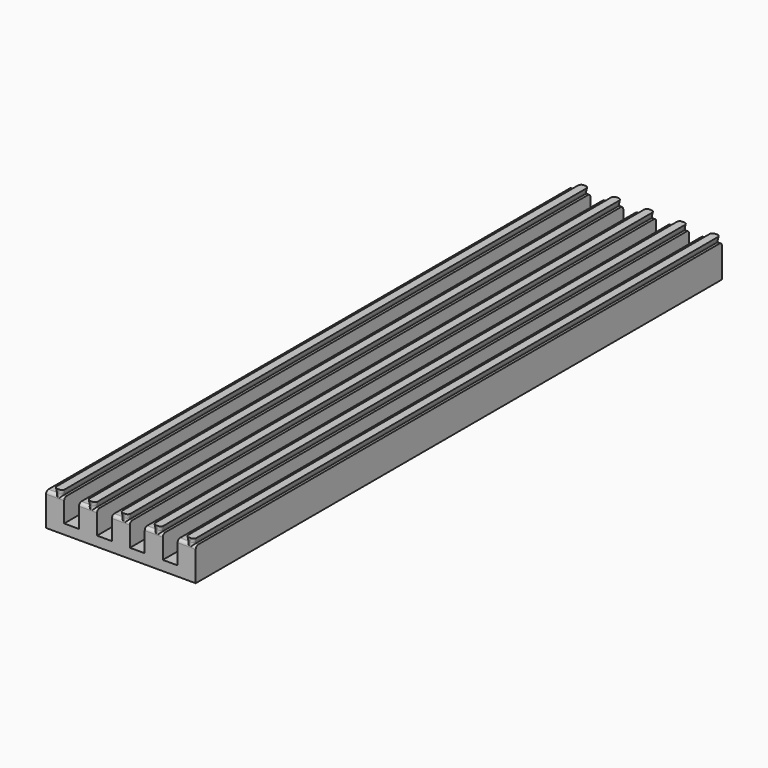
from build123d import *

# Parameters (mm, degrees)
BOX_W               = 70
BOX_H               = 200
BOX_DEPTH           = 11.6
POCKET_DEPTH        = 200.001
LINEARPATTERN_COUNT = 6
LINEARPATTERN_PITCH = 10
SKETCH_W            = 82.408782
SKETCH_H            = 38.885188
SKETCH_W_2          = 45.5
SKETCH_H_2          = 14.501198
POCKET001_DEPTH     = 200.001
SKETCH003_R         = 1
POCKET002_DEPTH     = 11.601
CHAMFER_SIZE        = 1
FILLET_R            = 0.92


with BuildPart() as part:
    # Box → Box (new body)
    with BuildSketch(Plane(origin=(-7.5, 0, 0), x_dir=(1, 0, 0), z_dir=(0, 0, 1))):
        with Locations((35, 100)):
            Rectangle(BOX_W, BOX_H)
    extrude(amount=BOX_DEPTH)

    # Sketch002 → Pocket (cut, through all)
    with BuildSketch(Plane(origin=(-7.5, 0, 0), x_dir=(1, 0, 0), z_dir=(0, -1, 0))):
        Polygon((10.05, 10), (7.25, 10), (7.25, 3), (2.75, 3), (2.75, 10), (1.95, 10), (1.95, 10.4), (2.25, 11.6), (9.75, 11.6), (10.05, 10.4), align=None)
    pocket = extrude(amount=-POCKET_DEPTH, mode=Mode.SUBTRACT)

    # LinearPattern: Pocket ×6
    with Locations(*[(i * LINEARPATTERN_PITCH, 0, 0) for i in range(1, LINEARPATTERN_COUNT)]):
        add(pocket, mode=Mode.SUBTRACT)

    # Sketch → Pocket001 (cut, through all)
    with BuildSketch(Plane(origin=(-7.5, 0, 0), x_dir=(1, 0, 0), z_dir=(0, -1, 0))):
        with Locations((35.413628, 6.289411)):
            Rectangle(SKETCH_W, SKETCH_H)
        with Locations((30, 5.862397)):
            Rectangle(SKETCH_W_2, SKETCH_H_2, mode=Mode.SUBTRACT)
    extrude(amount=-POCKET001_DEPTH, mode=Mode.SUBTRACT)

    # Sketch003 → Pocket002 (cut, through all)
    with BuildSketch(Plane(origin=(-7.5, 0, 0), x_dir=(1, 0, 0), z_dir=(0, 0, -1))):
        with Locations((15, -10)):
            Circle(SKETCH003_R)
        with Locations((45, -10)):
            Circle(SKETCH003_R)
        with Locations((15, -190)):
            Circle(SKETCH003_R)
        with Locations((45, -190)):
            Circle(SKETCH003_R)
        with Locations((15, -100)):
            Circle(SKETCH003_R)
        with Locations((45, -100)):
            Circle(SKETCH003_R)
    extrude(amount=-POCKET002_DEPTH, mode=Mode.SUBTRACT)

    # Chamfer
    chamfer_edges = [part.edges().sort_by_distance(p)[0] for p in [
        (36.5, 190, 3),
        (6.5, 190, 3),
        (36.5, 100, 3),
        (6.5, 100, 3),
        (36.5, 10, 3),
        (6.5, 10, 3),
    ]]
    chamfer(chamfer_edges, length=CHAMFER_SIZE)

    # Fillet
    fillet_edges = [part.edges().sort_by_distance(p)[0] for p in [
        (1.15, 0, 10),
        (2.55, 0, 10.2),
        (2.4, 0, 11),
        (4.6, 0, 11),
        (4.45, 0, 10.2),
        (4.85, 0, 10),
        (11.15, 0, 10),
        (12.55, 0, 10.2),
        (12.4, 0, 11),
        (14.6, 0, 11),
        (14.45, 0, 10.2),
        (14.85, 0, 10),
        (21.15, 0, 10),
        (22.55, 0, 10.2),
        (22.4, 0, 11),
        (24.6, 0, 11),
        (24.45, 0, 10.2),
        (24.85, 0, 10),
        (31.15, 0, 10),
        (32.55, 0, 10.2),
        (32.4, 0, 11),
        (34.6, 0, 11),
        (34.45, 0, 10.2),
        (34.85, 0, 10),
        (41.15, 0, 10),
        (42.55, 0, 10.2),
        (42.4, 0, 11),
        (44.6, 0, 11),
        (44.45, 0, 10.2),
        (44.85, 0, 10),
        (1.15, 200, 10),
        (2.55, 200, 10.2),
        (2.4, 200, 11),
        (4.85, 200, 10),
        (4.45, 200, 10.2),
        (4.6, 200, 11),
        (11.15, 200, 10),
        (12.55, 200, 10.2),
        (12.4, 200, 11),
        (14.6, 200, 11),
        (14.45, 200, 10.2),
        (14.85, 200, 10),
        (21.15, 200, 10),
        (22.55, 200, 10.2),
        (22.4, 200, 11),
        (24.6, 200, 11),
        (24.45, 200, 10.2),
        (24.85, 200, 10),
        (31.15, 200, 10),
        (32.55, 200, 10.2),
        (32.4, 200, 11),
        (34.6, 200, 11),
        (34.45, 200, 10.2),
        (34.85, 200, 10),
        (41.15, 200, 10),
        (42.55, 200, 10.2),
        (42.4, 200, 11),
        (44.6, 200, 11),
        (44.45, 200, 10.2),
        (44.85, 200, 10),
    ]]
    fillet(fillet_edges, radius=FILLET_R)


solid = part.part
